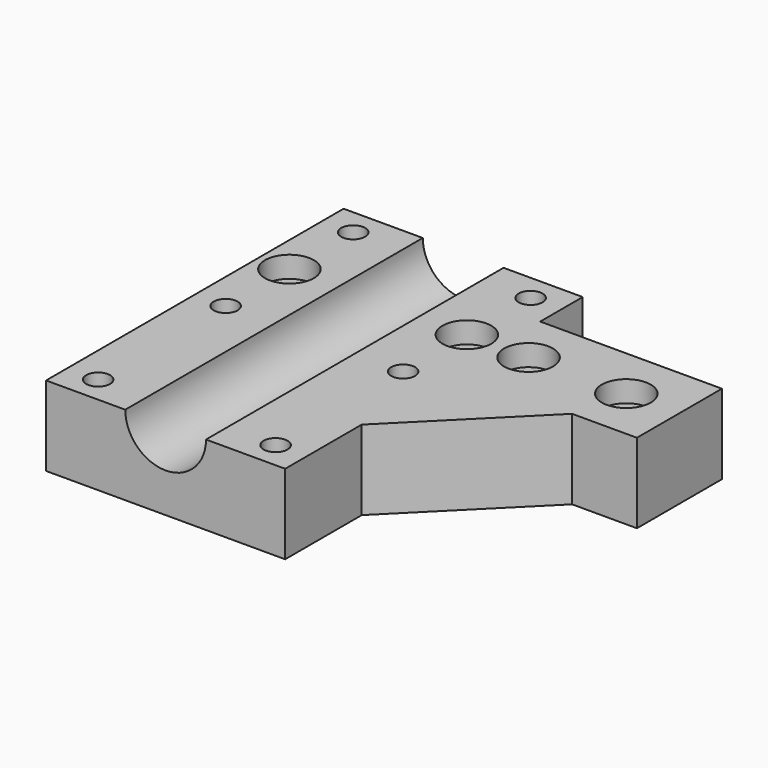
from build123d import *

# Parameters (mm, degrees)
SKETCH_R        = 2.25
PAD_DEPTH       = 15
SKETCH001_R     = 7.6
POCKET_DEPTH    = 70.001
SKETCH002_R     = 4.6
POCKET001_DEPTH = 4
CHAMFER_SIZE    = 22


with BuildPart() as part:
    # Sketch → Pad (new body)
    with BuildSketch(Plane.XY):
        Polygon((-22.5, -35), (22.5, -35), (22.5, 5), (56.7, 5), (56.7, 25), (22.5, 25), (22.5, 35), (-22.5, 35), align=None)
        with Locations((-16.7, 30)):
            Circle(SKETCH_R, mode=Mode.SUBTRACT)
        with Locations((16.7, 30)):
            Circle(SKETCH_R, mode=Mode.SUBTRACT)
        with Locations((-16.7, -30)):
            Circle(SKETCH_R, mode=Mode.SUBTRACT)
        with Locations((16.7, -30)):
            Circle(SKETCH_R, mode=Mode.SUBTRACT)
        with Locations((-16.7, 0)):
            Circle(SKETCH_R, mode=Mode.SUBTRACT)
        with Locations((16.7, 0)):
            Circle(SKETCH_R, mode=Mode.SUBTRACT)
        with Locations((16.7, 15)):
            Circle(SKETCH_R, mode=Mode.SUBTRACT)
        with Locations((46.7, 15)):
            Circle(SKETCH_R, mode=Mode.SUBTRACT)
        with Locations((-16.7, 15)):
            Circle(SKETCH_R, mode=Mode.SUBTRACT)
        with Locations((28.3, 15)):
            Circle(SKETCH_R, mode=Mode.SUBTRACT)
    extrude(amount=PAD_DEPTH)

    # Sketch001 → Pocket (cut, through all)
    with BuildSketch(Plane.XZ.offset(35)):
        with Locations((0, 15)):
            Circle(SKETCH001_R)
    extrude(amount=-POCKET_DEPTH, mode=Mode.SUBTRACT)

    # Sketch002 → Pocket001 (cut)
    with BuildSketch(Plane.XY.offset(15)):
        with Locations((-16.7, 15)):
            Circle(SKETCH002_R)
        with Locations((16.7, 15)):
            Circle(SKETCH002_R)
        with Locations((28.3, 15)):
            Circle(SKETCH002_R)
        with Locations((46.7, 15)):
            Circle(SKETCH002_R)
    extrude(amount=-POCKET001_DEPTH, mode=Mode.SUBTRACT)

    # Chamfer
    chamfer_edges = [part.edges().sort_by_distance(p)[0] for p in [
        (22.5, 5, 7.5),
    ]]
    chamfer(chamfer_edges, length=CHAMFER_SIZE)


solid = part.part
